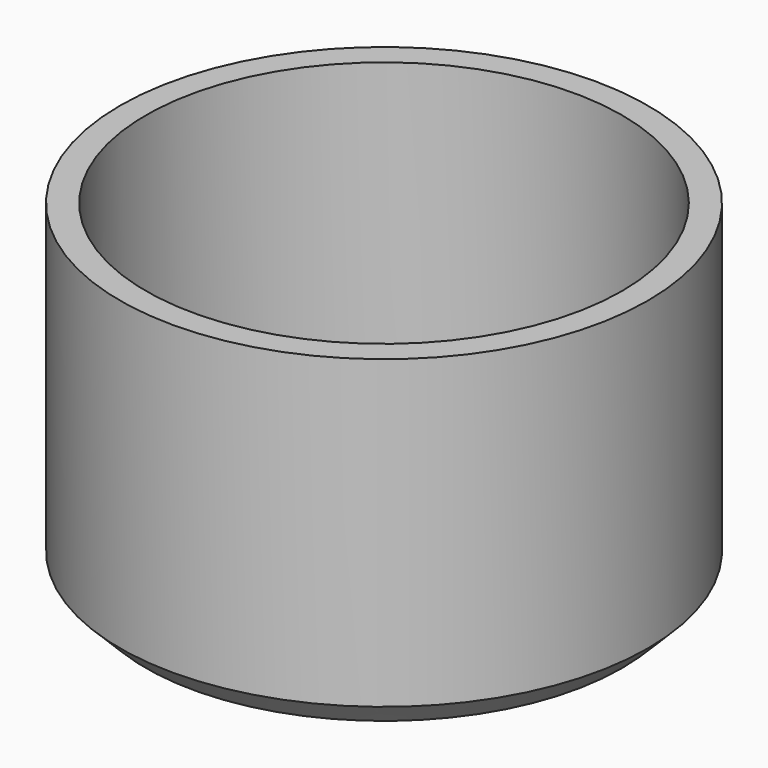
from build123d import *

# Parameters (mm, degrees)
BOX014_W          = 15
BOX014_H          = 1.6
BOX014_DEPTH      = 10.5
CYLINDER024_R     = 2.9
CYLINDER024_DEPTH = 10.5
CYLINDER023_R     = 4.5
CYLINDER023_DEPTH = 7
CYLINDER022_R     = 14.7
CYLINDER022_DEPTH = 20.5
CYLINDER021_R     = 16.3
CYLINDER021_DEPTH = 20.5
CHAMFER010_SIZE   = 1.6
CHAMFER011_SIZE   = 1.6
CHAMFER012_SIZE   = 1.6


with BuildPart() as obj1:
    # Box014 → Box014 (new body)
    with BuildSketch(Plane(origin=(123, 18.3, 1.6), x_dir=(1, 0, 0), z_dir=(0, 0, 1))):
        with Locations((7.5, 0.8)):
            Rectangle(BOX014_W, BOX014_H)
    extrude(amount=BOX014_DEPTH)


with BuildPart() as zylinder024:
    # Cylinder024 → Cylinder024 (new body)
    with BuildSketch(Plane(origin=(130, 19.1, 1.6), x_dir=(1, 0, 0), z_dir=(0, 0, 1))):
        Circle(CYLINDER024_R)
    extrude(amount=CYLINDER024_DEPTH)


with BuildPart() as cut016:
    # Cylinder023 → Cylinder023 (new body)
    with BuildSketch(Plane(origin=(130, 19.1, 0), x_dir=(1, 0, 0), z_dir=(0, 0, 1))):
        Circle(CYLINDER023_R)
    extrude(amount=CYLINDER023_DEPTH)

    # Cut016: cut Zylinder024
    add(zylinder024.part, mode=Mode.SUBTRACT)


with BuildPart() as zylinder022:
    # Cylinder022 → Cylinder022 (new body)
    with BuildSketch(Plane(origin=(130, 19.1, 1.6), x_dir=(1, 0, 0), z_dir=(0, 0, 1))):
        Circle(CYLINDER022_R)
    extrude(amount=CYLINDER022_DEPTH)


with BuildPart() as knob_big:
    # Cylinder021 → Cylinder021 (new body)
    with BuildSketch(Plane(origin=(130, 19.1, 0), x_dir=(1, 0, 0), z_dir=(0, 0, 1))):
        Circle(CYLINDER021_R)
    extrude(amount=CYLINDER021_DEPTH)

    # Cut015: cut Zylinder022
    add(zylinder022.part, mode=Mode.SUBTRACT)

    # Chamfer010
    chamfer010_edges = [knob_big.edges().sort_by_distance(p)[0] for p in [
        (115.3, 19.1, 1.6),
    ]]
    chamfer(chamfer010_edges, length=CHAMFER010_SIZE)

    # Chamfer011
    chamfer011_edges = [knob_big.edges().sort_by_distance(p)[0] for p in [
        (113.7, 19.1, 0),
    ]]
    chamfer(chamfer011_edges, length=CHAMFER011_SIZE)

    # Fusion014: union Cut016
    add(cut016.part)

    # Chamfer012
    chamfer012_edges = [knob_big.edges().sort_by_distance(p)[0] for p in [
        (125.5, 19.1, 1.6),
    ]]
    chamfer(chamfer012_edges, length=CHAMFER012_SIZE)

    # Cut017: cut obj1
    add(obj1.part, mode=Mode.SUBTRACT)


with BuildPart() as knob_big_1:
    # Cut017 placement: moved
    add(knob_big.part.moved(Location((40, 0, 0))))


solid = knob_big_1.part
